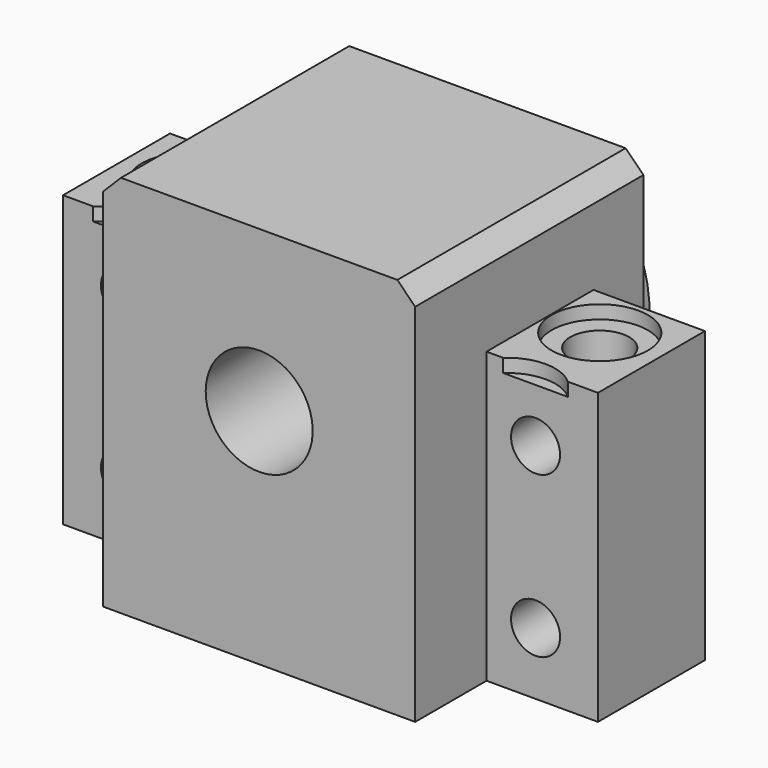
from build123d import *

# Parameters (mm, degrees)
F10_W          = 60
F10_H          = 32.5
F11_DEPTH      = 25
F0_W           = 35
F0_H           = 35
F12_DEPTH      = 32
F1_R           = 6
F13_DEPTH      = 32.001
F2_SIZE        = 2
F3_R           = 2.75
F14_DEPTH      = 32.001
F4_SIZE        = 2
F6_D           = 6.6
F6_CBORE_D     = 10.8
F6_CBORE_DEPTH = 1.5
F15_R          = 15
F15_R_2        = 6
F7_DEPTH       = 4
F8_W           = 12.5
F8_H           = 32.5
F9_DEPTH       = 10


with BuildPart() as f11:
    # F10 (on Front) → F11 (new body)
    with BuildSketch(Plane.XZ):
        Rectangle(F10_W, F10_H)
    extrude(amount=-F11_DEPTH)

    # F0 (on Front) → F12 (join)
    with BuildSketch(Plane.XZ):
        with Locations((0, 9.25)):
            Rectangle(F0_W, F0_H)
    extrude(amount=-F12_DEPTH)

    # F1 (on face) → F13 (cut, through all)
    with BuildSketch(Plane(origin=(0, 32, 0), x_dir=(-1, 0, 0), z_dir=(0, 1, 0))):
        with Locations((0, 8.75)):
            Circle(F1_R)
    extrude(amount=-F13_DEPTH, mode=Mode.SUBTRACT)

    # F2
    f2_edges = [f11.edges().sort_by_distance(p)[0] for p in [
        (-17.5, 16, 26.75),
        (17.5, 16, 26.75),
    ]]
    chamfer(f2_edges, length=F2_SIZE)

    # F3 (on Front) → F14 (cut, through all)
    with BuildSketch(Plane.XZ):
        with Locations((23, -9.25)):
            Circle(F3_R)
        with Locations((23, 8.75)):
            Circle(F3_R)
        with Locations((-23, 8.75)):
            Circle(F3_R)
        with Locations((-23, -9.25)):
            Circle(F3_R)
    extrude(amount=-F14_DEPTH, mode=Mode.SUBTRACT)

    # F4
    f4_edges = [f11.edges().sort_by_distance(p)[0] for p in [
        (-17.5, 28.5, -8.25),
        (17.5, 28.5, -8.25),
    ]]
    chamfer(f4_edges, length=F4_SIZE)

    # F6 (through all)
    with Locations(Plane.XY.offset(16.25)):
        with Locations((-23, 6), (-23, 19), (23, 6), (23, 19)):
            CounterBoreHole(F6_D / 2, F6_CBORE_D / 2, F6_CBORE_DEPTH)

    # F15 (on face) → F7 (join)
    with BuildSketch(Plane(origin=(0, 32, 0), x_dir=(-1, 0, 0), z_dir=(0, 1, 0))):
        with Locations((0, 8.75)):
            Circle(F15_R)
        with Locations((0, 8.75)):
            Circle(F15_R_2, mode=Mode.SUBTRACT)
    extrude(amount=F7_DEPTH)

    # F8 (on face) → F9 (cut)
    with BuildSketch(Plane.XZ):
        with Locations((-23.75, 0)):
            Rectangle(F8_W, F8_H)
        with Locations((23.75, 0)):
            Rectangle(F8_W, F8_H)
    extrude(amount=-F9_DEPTH, mode=Mode.SUBTRACT)


solid = f11.part
